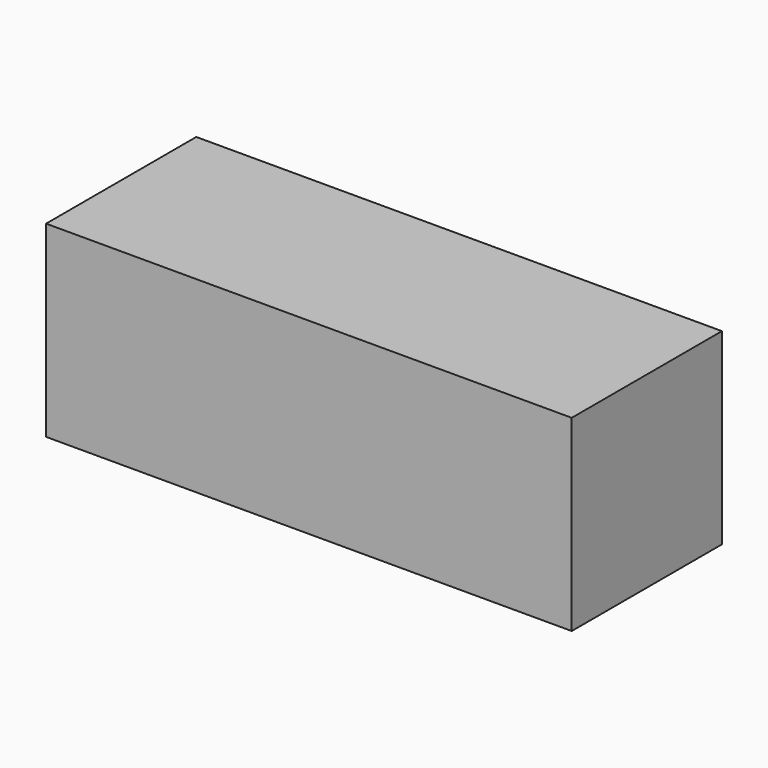
from build123d import *

# Parameters (mm, degrees)
SKETCH_W      = 140
SKETCH_H      = 50
EXTRUDE_DEPTH = 50


with BuildPart() as part:
    # Sketch → Extrude (new body)
    with BuildSketch(Plane.XY):
        Rectangle(SKETCH_W, SKETCH_H)
    extrude(amount=EXTRUDE_DEPTH)


solid = part.part
